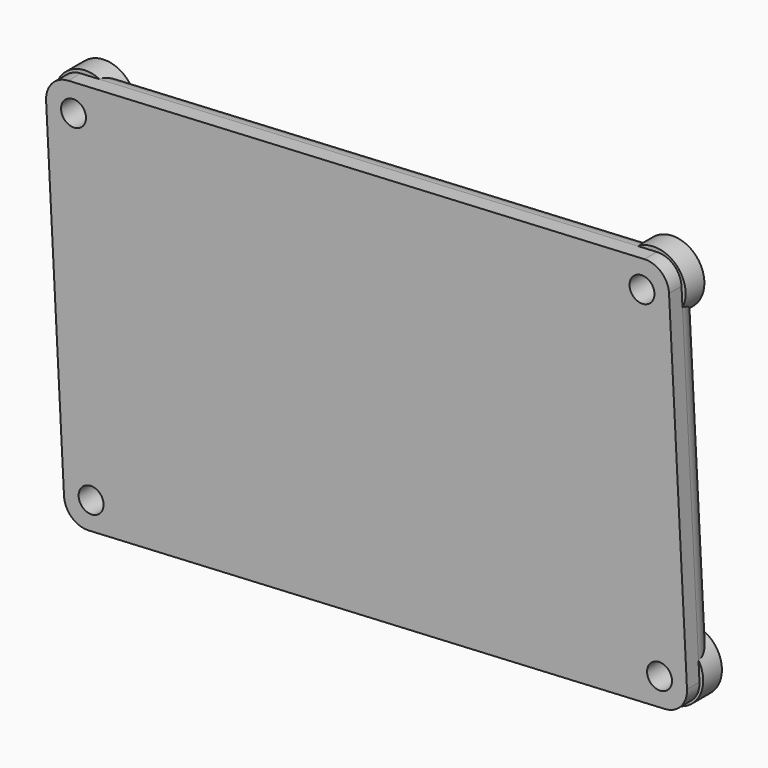
from build123d import *

# Parameters (mm, degrees)
CYLINDER083_R          = 1.6
CYLINDER083_DEPTH      = 10
CYLINDER081_R          = 1.6
CYLINDER081_DEPTH      = 10
CYLINDER082_R          = 1.6
CYLINDER082_DEPTH      = 10
CYLINDER084_R          = 1.6
CYLINDER084_DEPTH      = 10
CYLINDER095_R          = 4
CYLINDER095_DEPTH      = 3
CYLINDER096_R          = 4
CYLINDER096_DEPTH      = 3
CYLINDER097_R          = 4
CYLINDER097_DEPTH      = 3
CYLINDER094_R          = 4
CYLINDER094_DEPTH      = 3
BOX039_W               = 80
BOX039_H               = 5
BOX039_DEPTH           = 50
FILLET028_R            = 3
FILLET029_R            = 3
CUT063_PLACEMENT_ANGLE = 3


with BuildPart() as cylinder083:
    # Cylinder083 → Cylinder083 (new body)
    with BuildSketch(Plane(origin=(76.5, 96, 46.5), x_dir=(1, 0, 0), z_dir=(0, -1, 0))):
        Circle(CYLINDER083_R)
    extrude(amount=CYLINDER083_DEPTH)


with BuildPart() as cylinder081:
    # Cylinder081 → Cylinder081 (new body)
    with BuildSketch(Plane(origin=(76.5, 96, 3.5), x_dir=(1, 0, 0), z_dir=(0, -1, 0))):
        Circle(CYLINDER081_R)
    extrude(amount=CYLINDER081_DEPTH)


with BuildPart() as cylinder082:
    # Cylinder082 → Cylinder082 (new body)
    with BuildSketch(Plane(origin=(3.5, 96, 46.5), x_dir=(1, 0, 0), z_dir=(0, -1, 0))):
        Circle(CYLINDER082_R)
    extrude(amount=CYLINDER082_DEPTH)


with BuildPart() as fusion073:
    # Cylinder084 → Cylinder084 (new body)
    with BuildSketch(Plane(origin=(3.5, 96, 3.5), x_dir=(1, 0, 0), z_dir=(0, -1, 0))):
        Circle(CYLINDER084_R)
    extrude(amount=CYLINDER084_DEPTH)

    # Fusion073: union Cylinder083, Cylinder081, Cylinder082
    add(cylinder083.part)
    add(cylinder081.part)
    add(cylinder082.part)


with BuildPart() as fusion073_1:
    # Fusion073 placement: moved
    add(fusion073.part.moved(Location((0, 5, 0))))


with BuildPart() as cylinder095:
    # Cylinder095 → Cylinder095 (new body)
    with BuildSketch(Plane(origin=(76.5, 96, 46.5), x_dir=(1, 0, 0), z_dir=(0, -1, 0))):
        Circle(CYLINDER095_R)
    extrude(amount=CYLINDER095_DEPTH)


with BuildPart() as cylinder096:
    # Cylinder096 → Cylinder096 (new body)
    with BuildSketch(Plane(origin=(76.5, 96, 3.5), x_dir=(1, 0, 0), z_dir=(0, -1, 0))):
        Circle(CYLINDER096_R)
    extrude(amount=CYLINDER096_DEPTH)


with BuildPart() as cylinder097:
    # Cylinder097 → Cylinder097 (new body)
    with BuildSketch(Plane(origin=(3.5, 96, 46.5), x_dir=(1, 0, 0), z_dir=(0, -1, 0))):
        Circle(CYLINDER097_R)
    extrude(amount=CYLINDER097_DEPTH)


with BuildPart() as fusion082:
    # Cylinder094 → Cylinder094 (new body)
    with BuildSketch(Plane(origin=(3.5, 96, 3.5), x_dir=(1, 0, 0), z_dir=(0, -1, 0))):
        Circle(CYLINDER094_R)
    extrude(amount=CYLINDER094_DEPTH)

    # Fusion082: union Cylinder095, Cylinder096, Cylinder097
    add(cylinder095.part)
    add(cylinder096.part)
    add(cylinder097.part)


with BuildPart() as fusion082_1:
    # Fusion082 placement: moved
    add(fusion082.part.moved(Location((0, 5, 0))))


with BuildPart() as battery_holder_cap:
    # Box039 → Box039 (new body)
    with BuildSketch(Plane(origin=(0, 96, 0), x_dir=(1, 0, 0), z_dir=(0, 0, 1))):
        with Locations((40, 2.5)):
            Rectangle(BOX039_W, BOX039_H)
    extrude(amount=BOX039_DEPTH)

    # Fillet028
    fillet028_edges = [battery_holder_cap.edges().sort_by_distance(p)[0] for p in [
        (0, 98.5, 50),
        (0, 98.5, 0),
        (80, 98.5, 50),
        (80, 98.5, 0),
    ]]
    fillet(fillet028_edges, radius=FILLET028_R)

    # Fillet029
    fillet029_edges = [battery_holder_cap.edges().sort_by_distance(p)[0] for p in [
        (0, 101, 25),
        (40, 101, 0),
        (80, 101, 25),
        (40, 101, 50),
    ]]
    fillet(fillet029_edges, radius=FILLET029_R)

    # Fusion102: union Fusion082
    add(fusion082_1.part)

    # Cut063: cut Fusion073
    add(fusion073_1.part, mode=Mode.SUBTRACT)


with BuildPart() as battery_holder_cap_1:
    # Cut063 placement: moved
    add(battery_holder_cap.part.moved(Location((306, -5, -55))).rotate(Axis((306, -5, -55), (0, -1, 0)), CUT063_PLACEMENT_ANGLE))


solid = battery_holder_cap_1.part
